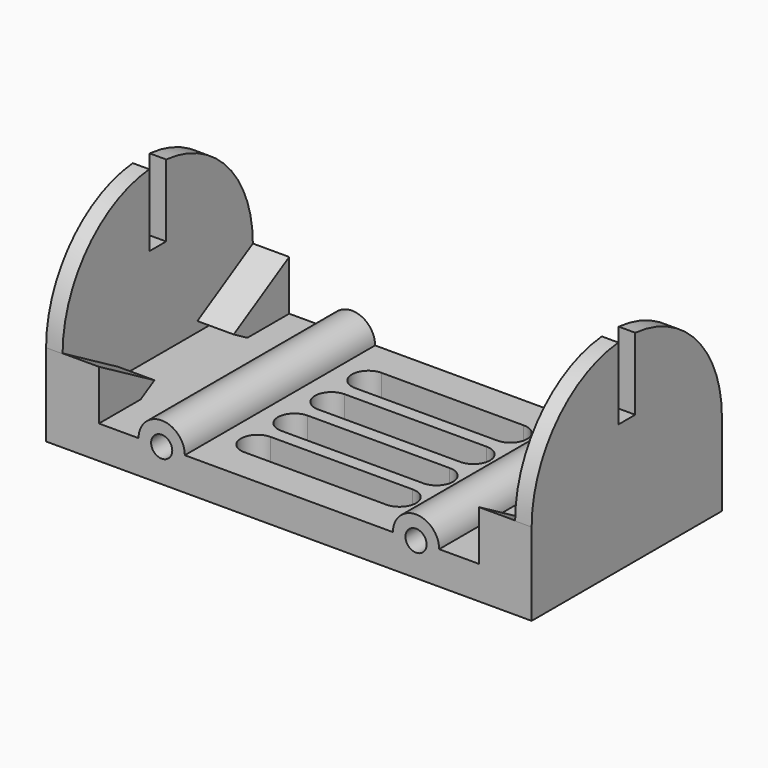
from build123d import *

# Parameters (mm, degrees)
BOX004_W               = 147
BOX004_H               = 72
BOX004_DEPTH           = 10
BOX005_W               = 5
BOX005_H               = 72
BOX005_DEPTH           = 15
CYLINDER003_W          = 36
CYLINDER003_H          = 5
CYLINDER003_ANGLE      = 180
BOX006_W               = 5
BOX006_H               = 72
BOX006_DEPTH           = 15
CYLINDER004_W          = 36
CYLINDER004_H          = 5
CYLINDER004_ANGLE      = 180
BOX007_W               = 147
BOX007_H               = 6.4
BOX007_DEPTH           = 22
CYLINDER005_R          = 7
CYLINDER005_DEPTH      = 72
CYLINDER006_R          = 7
CYLINDER006_DEPTH      = 72
CYLINDER007_R          = 3.2
CYLINDER007_DEPTH      = 72
CYLINDER008_R          = 3.2
CYLINDER008_DEPTH      = 72
PRISM001_DEPTH         = 11
PRISM002_DEPTH         = 11
PRISM003_DEPTH         = 11
PRISM004_DEPTH         = 11
POCKET001_DEPTH        = 10
LINEARPATTERN001_COUNT = 4
LINEARPATTERN001_PITCH = 14


with BuildPart() as part:
    # Box004 → Box004 (join)
    with BuildSketch(Plane.XY):
        with Locations((73.5, 36)):
            Rectangle(BOX004_W, BOX004_H)
    extrude(amount=BOX004_DEPTH)

    # Box005 → Box005 (join)
    with BuildSketch(Plane.XY.offset(10)):
        with Locations((2.5, 36)):
            Rectangle(BOX005_W, BOX005_H)
    extrude(amount=BOX005_DEPTH)

    # Cylinder003 → Cylinder003 (revolve)
    with BuildSketch(Plane(origin=(0, 36, 25), x_dir=(0, 1, 0), z_dir=(0, 0, -1))):
        with Locations((18, 2.5)):
            Rectangle(CYLINDER003_W, CYLINDER003_H)
    revolve(axis=Axis((0, 36, 25), (1, 0, 0)), revolution_arc=CYLINDER003_ANGLE)

    # Box006 → Box006 (join)
    with BuildSketch(Plane(origin=(142, 0, 10), x_dir=(1, 0, 0), z_dir=(0, 0, 1))):
        with Locations((2.5, 36)):
            Rectangle(BOX006_W, BOX006_H)
    extrude(amount=BOX006_DEPTH)

    # Cylinder004 → Cylinder004 (revolve)
    with BuildSketch(Plane(origin=(142, 36, 25), x_dir=(0, 1, 0), z_dir=(0, 0, -1))):
        with Locations((18, 2.5)):
            Rectangle(CYLINDER004_W, CYLINDER004_H)
    revolve(axis=Axis((142, 36, 25), (1, 0, 0)), revolution_arc=CYLINDER004_ANGLE)

    # Box007 → Box007 (cut)
    with BuildSketch(Plane(origin=(0, 32.8, 39), x_dir=(1, 0, 0), z_dir=(0, 0, 1))):
        with Locations((73.5, 3.2)):
            Rectangle(BOX007_W, BOX007_H)
    extrude(amount=BOX007_DEPTH, mode=Mode.SUBTRACT)

    # Cylinder005 → Cylinder005 (join)
    with BuildSketch(Plane(origin=(35, 72, 10), x_dir=(1, 0, 0), z_dir=(0, -1, 0))):
        Circle(CYLINDER005_R)
    extrude(amount=CYLINDER005_DEPTH)

    # Cylinder006 → Cylinder006 (join)
    with BuildSketch(Plane(origin=(112, 72, 10), x_dir=(1, 0, 0), z_dir=(0, -1, 0))):
        Circle(CYLINDER006_R)
    extrude(amount=CYLINDER006_DEPTH)

    # Cylinder007 → Cylinder007 (cut)
    with BuildSketch(Plane(origin=(35, 72, 10), x_dir=(1, 0, 0), z_dir=(0, -1, 0))):
        Circle(CYLINDER007_R)
    extrude(amount=CYLINDER007_DEPTH, mode=Mode.SUBTRACT)

    # Cylinder008 → Cylinder008 (cut)
    with BuildSketch(Plane(origin=(112, 72, 10), x_dir=(1, 0, 0), z_dir=(0, -1, 0))):
        Circle(CYLINDER008_R)
    extrude(amount=CYLINDER008_DEPTH, mode=Mode.SUBTRACT)

    # Prism001 → Prism001 (join)
    with BuildSketch(Plane(origin=(5, 7, 13), x_dir=(0, 1, 0), z_dir=(1, 0, 0))):
        Polygon((14, 0), (-7, 12.124356), (-7, -12.124356), align=None)
    extrude(amount=PRISM001_DEPTH)

    # Prism002 → Prism002 (join)
    with BuildSketch(Plane(origin=(131, 7, 13), x_dir=(0, 1, 0), z_dir=(1, 0, 0))):
        Polygon((14, 0), (-7, 12.124356), (-7, -12.124356), align=None)
    extrude(amount=PRISM002_DEPTH)

    # Prism003 → Prism003 (join)
    with BuildSketch(Plane(origin=(131, 65, 13), x_dir=(0, -1, 0), z_dir=(1, 0, 0))):
        Polygon((14, 0), (-7, 12.124356), (-7, -12.124356), align=None)
    extrude(amount=PRISM003_DEPTH)

    # Prism004 → Prism004 (join)
    with BuildSketch(Plane(origin=(5, 65, 13), x_dir=(0, -1, 0), z_dir=(1, 0, 0))):
        Polygon((14, 0), (-7, 12.124356), (-7, -12.124356), align=None)
    extrude(amount=PRISM004_DEPTH)

    # Sketch001 → Pocket001 (cut)
    with BuildSketch(Plane.XY):
        with BuildLine():
            ThreePointArc((52, 20), (47, 15), (52, 10))
            Line((52, 10), (95, 10))
            ThreePointArc((95, 10), (100, 15), (95, 20))
            Line((95, 20), (52, 20))
        make_face()
    pocket001 = extrude(amount=POCKET001_DEPTH, mode=Mode.SUBTRACT)

    # LinearPattern001: Pocket001 ×4
    with Locations(*[(0, i * LINEARPATTERN001_PITCH, 0) for i in range(1, LINEARPATTERN001_COUNT)]):
        add(pocket001, mode=Mode.SUBTRACT)


with BuildPart() as part_1:
    # Body003 placement: moved
    add(part.part.moved(Location((-16, -5, -39))))


solid = part_1.part
